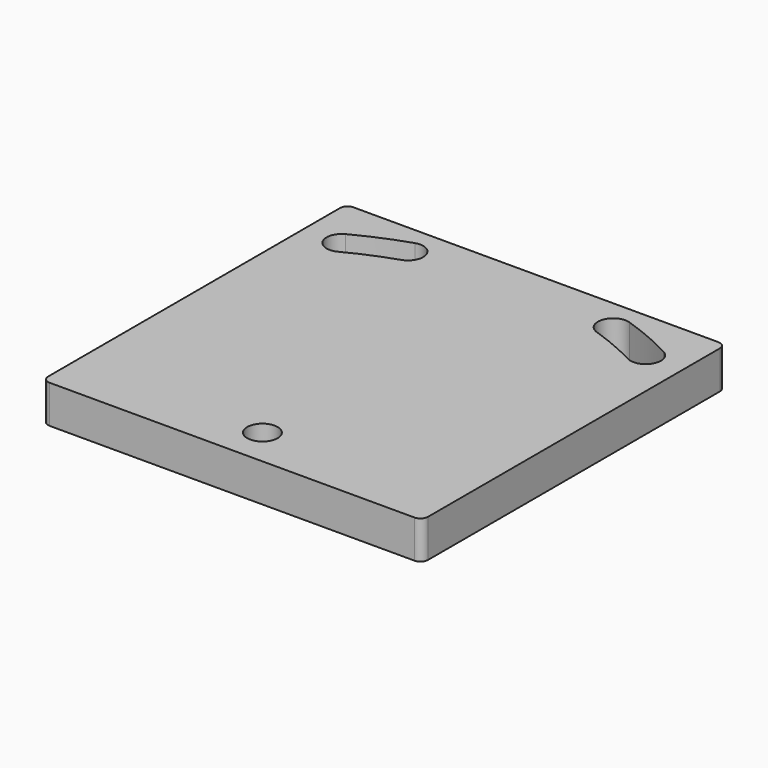
from build123d import *

# Parameters (mm, degrees)
F0_R     = 4
F1_DEPTH = 10


with BuildPart() as f1:
    # F0 (on Top) → F1 (new body)
    with BuildSketch(Plane.XY):
        with BuildLine():
            ThreePointArc((50, 48), (49.414214, 49.414214), (48, 50))
            Line((48, 50), (-48, 50))
            ThreePointArc((-48, 50), (-49.414214, 49.414214), (-50, 48))
            Line((-50, 48), (-50, -48))
            ThreePointArc((-50, -48), (-49.414214, -49.414214), (-48, -50))
            Line((-48, -50), (48, -50))
            ThreePointArc((48, -50), (49.414214, -49.414214), (50, -48))
            Line((50, -48), (50, 48))
        make_face()
        with Locations((0, -40)):
            Circle(F0_R, mode=Mode.SUBTRACT)
        with BuildLine():
            ThreePointArc((-41.860465, 39.672464), (-35.176932, 42.840711), (-28.255814, 45.449453))
            ThreePointArc((-28.255814, 45.449453), (-23.202247, 42.907513), (-25.744186, 37.853946))
            ThreePointArc((-25.744186, 37.853946), (-32.050094, 35.477093), (-38.139535, 32.590467))
            ThreePointArc((-38.139535, 32.590467), (-43.540998, 34.271), (-41.860465, 39.672464))
        make_face(mode=Mode.SUBTRACT)
        with BuildLine():
            ThreePointArc((25.744186, 37.853946), (23.202247, 42.907513), (28.255814, 45.449453))
            ThreePointArc((28.255814, 45.449453), (35.176932, 42.840711), (41.860465, 39.672464))
            ThreePointArc((41.860465, 39.672464), (43.540998, 34.271), (38.139535, 32.590467))
            ThreePointArc((38.139535, 32.590467), (32.050094, 35.477093), (25.744186, 37.853946))
        make_face(mode=Mode.SUBTRACT)
    extrude(amount=F1_DEPTH)


solid = f1.part
